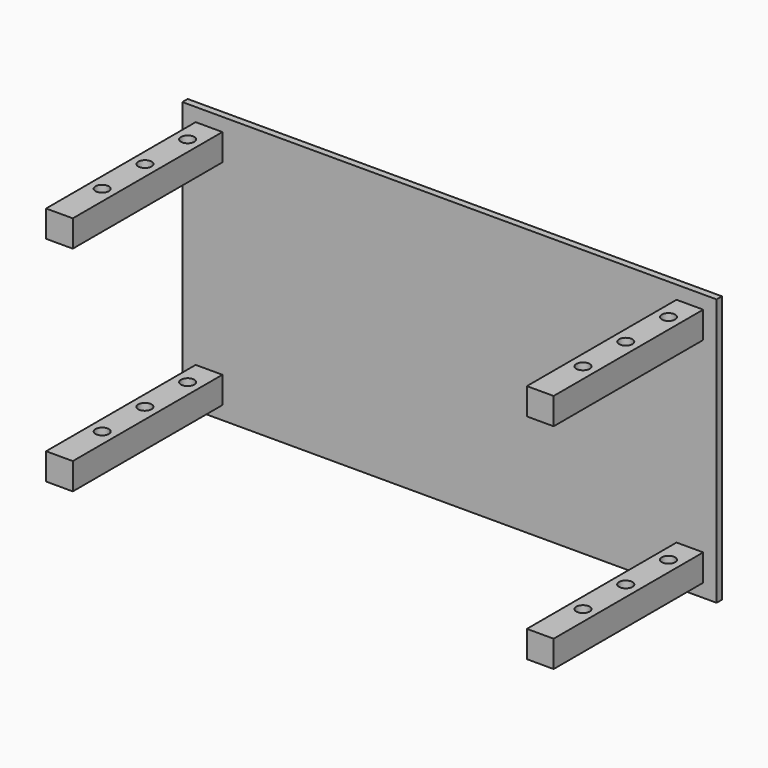
from build123d import *

# Parameters (mm, degrees)
F0_W     = 2000
F0_H     = 1000
F1_DEPTH = 25
F2_W     = 100
F2_H     = 100
F3_DEPTH = 725
F4_R     = 25
F5_DEPTH = 558.200856
F6_R     = 25
F7_DEPTH = 950.001


with BuildPart() as f1:
    # F0 (on Front) → F1 (new body)
    with BuildSketch(Plane.XZ):
        with Locations((0.149995, -58.199856)):
            Rectangle(F0_W, F0_H)
    extrude(amount=F1_DEPTH)

    # F2 (on Front) → F3 (join)
    with BuildSketch(Plane.XZ):
        with Locations((-899.850005, -458.199856)):
            Rectangle(F2_W, F2_H)
        with Locations((-899.850005, 341.800144)):
            Rectangle(F2_W, F2_H)
        with Locations((900.149995, 341.800144)):
            Rectangle(F2_W, F2_H)
        with Locations((900.149995, -458.199856)):
            Rectangle(F2_W, F2_H)
    extrude(amount=F3_DEPTH)

    # F4 (on Top) → F5 (cut, through all)
    with BuildSketch(Plane.XY):
        with Locations((-899.850005, -125)):
            Circle(F4_R)
        with Locations((-899.850005, -325)):
            Circle(F4_R)
        with Locations((-899.850005, -525)):
            Circle(F4_R)
        with Locations((900.149995, -525)):
            Circle(F4_R)
        with Locations((900.149995, -325)):
            Circle(F4_R)
        with Locations((900.149995, -125)):
            Circle(F4_R)
    extrude(amount=-F5_DEPTH, mode=Mode.SUBTRACT)

    # F6 (on face) → F7 (cut, through all)
    with BuildSketch(Plane.XY.offset(391.800144)):
        with Locations((900.149995, -525)):
            Circle(F6_R)
        with Locations((900.149995, -325)):
            Circle(F6_R)
        with Locations((900.149995, -125)):
            Circle(F6_R)
        with Locations((-899.850005, -525)):
            Circle(F6_R)
        with Locations((-899.850005, -325)):
            Circle(F6_R)
        with Locations((-899.850005, -125)):
            Circle(F6_R)
    extrude(amount=-F7_DEPTH, mode=Mode.SUBTRACT)


solid = f1.part
